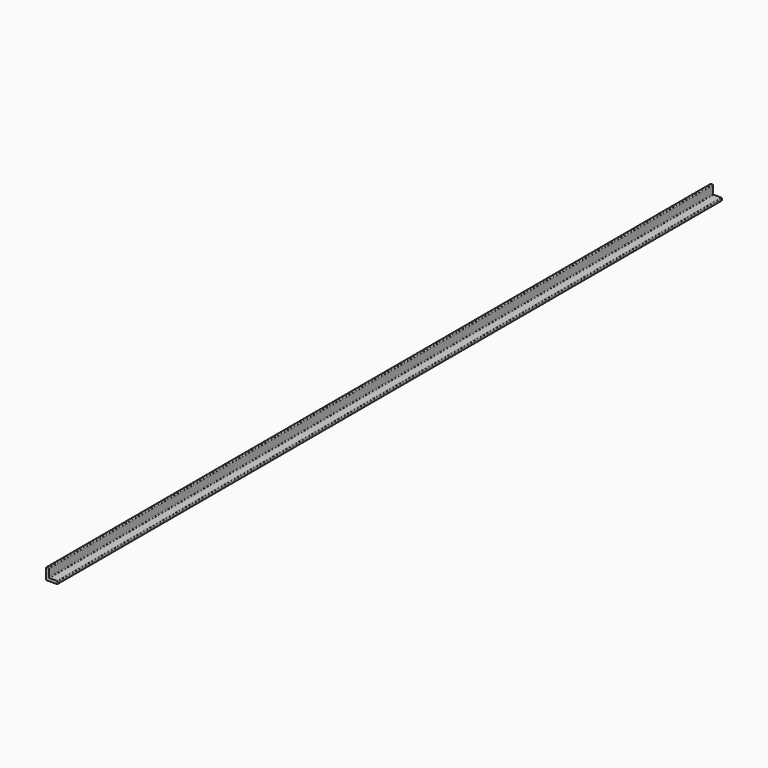
from build123d import *

# Parameters (mm, degrees)
F1_DEPTH = 1816.1


with BuildPart() as f1:
    # F0 (on Front) → F1 (new body)
    with BuildSketch(Plane.XZ):
        with BuildLine():
            Line((0, 23.876), (0, 0))
            Line((0, 0), (23.876, 0))
            ThreePointArc((23.876, 0), (24.953631, 0.446369), (25.4, 1.524))
            Line((25.4, 1.524), (25.4, 4.826))
            ThreePointArc((25.4, 4.826), (24.953631, 5.903631), (23.876, 6.35))
            Line((23.876, 6.35), (7.874, 6.35))
            ThreePointArc((7.874, 6.35), (6.796369, 6.796369), (6.35, 7.874))
            Line((6.35, 7.874), (6.35, 23.876))
            ThreePointArc((6.35, 23.876), (5.903631, 24.953631), (4.826, 25.4))
            Line((4.826, 25.4), (1.524, 25.4))
            ThreePointArc((1.524, 25.4), (0.446369, 24.953631), (0, 23.876))
        make_face()
    extrude(amount=F1_DEPTH)


solid = f1.part
